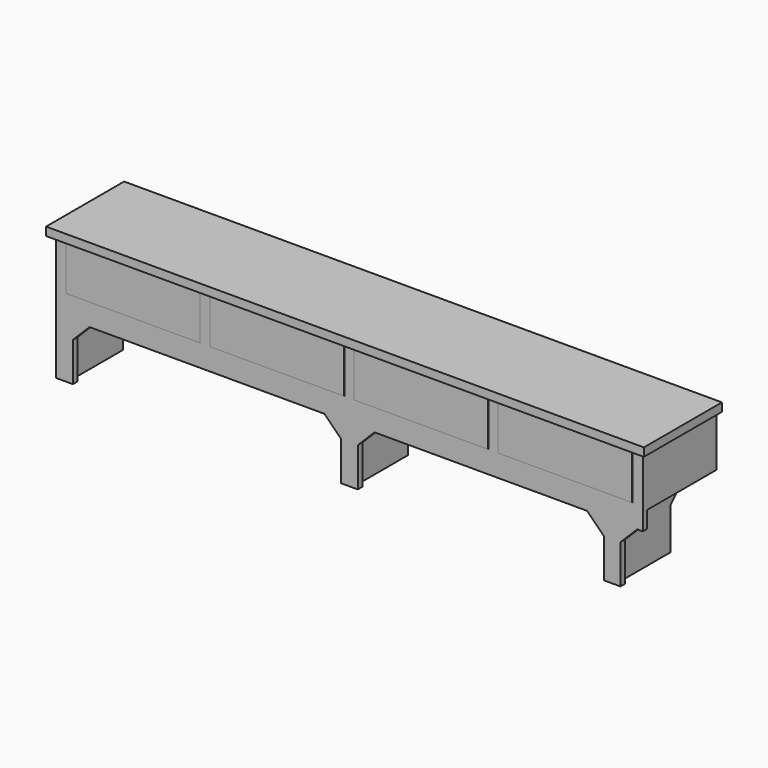
from build123d import *

# Parameters (mm, degrees)
F0_W          = 2724.15
F0_H          = 419.1
F1_DEPTH      = 609.6
F3_DEPTH      = 1362.076
F3_DEPTH_BACK = 1362.076
F4_W          = 25.4
F4_H          = 571.5
F5_DEPTH      = 419.101
F7_DEPTH      = 419.101
F8_W          = 609.6
F8_H          = 215.9
F9_DEPTH      = 2.54
F11_DEPTH     = 393.7
F12_W         = 2724.15
F12_H         = 38.1
F13_DEPTH     = 25.4
F15_DEPTH     = 406.4


with BuildPart() as f1:
    # F0 (on Top) → F1 (new body)
    with BuildSketch(Plane.XY):
        with Locations((0, -209.55)):
            Rectangle(F0_W, F0_H)
    extrude(amount=-F1_DEPTH)

    # F2 (on Right) → F3 (cut, two sides)
    with BuildSketch(Plane.YZ) as f3_sk:
        Polygon((-101.6, -419.1), (-101.6, -609.6), (0, -609.6), (0, -368.3), (-50.8, -368.3), align=None)
    extrude(amount=F3_DEPTH, mode=Mode.SUBTRACT)
    extrude(f3_sk.sketch, amount=-F3_DEPTH_BACK, mode=Mode.SUBTRACT)

    # F4 (on face) → F5 (cut, through all)
    with BuildSketch(Plane.XZ.offset(419.1)):
        with Locations((1349.375, -323.85)):
            Rectangle(F4_W, F4_H)
        with Locations((-1349.375, -323.85)):
            Rectangle(F4_W, F4_H)
    extrude(amount=-F5_DEPTH, mode=Mode.SUBTRACT)

    # F6 (on face) → F7 (cut, through all)
    with BuildSketch(Plane.XZ.offset(419.1)):
        Polygon((-1260.475, -431.8), (-1260.475, -609.6), (-38.1, -609.6), (-38.1, -431.8), (-114.3, -355.6), (-1184.275, -355.6), align=None)
        Polygon((38.1, -431.8), (38.1, -609.6), (1158.875, -609.6), (1158.875, -431.8), (1082.675, -355.6), (114.3, -355.6), align=None)
        Polygon((1235.075, -431.8), (1235.075, -609.6), (1336.675, -609.6), (1336.675, -355.6), (1311.275, -355.6), align=None)
    extrude(amount=-F7_DEPTH, mode=Mode.SUBTRACT)

    # F8 (on face) → F9 (join)
    with BuildSketch(Plane.XZ.offset(419.1)):
        with Locations((-984.885, -146.05)):
            Rectangle(F8_W, F8_H)
        with Locations((-328.295, -146.05)):
            Rectangle(F8_W, F8_H)
        with Locations((328.295, -146.05)):
            Rectangle(F8_W, F8_H)
        with Locations((984.885, -146.05)):
            Rectangle(F8_W, F8_H)
    extrude(amount=F9_DEPTH)

    # F10 (on face) → F11 (cut, through all)
    with BuildSketch(Plane(origin=(0, 0, 0), x_dir=(-1, 0, 0), z_dir=(0, 1, 0))):
        Polygon((-1184.275, -609.6), (-1209.675, -609.6), (-1209.675, -279.4), (-1336.675, -279.4), (-1336.675, -635), (1336.675, -635), (1336.675, -279.4), (1311.275, -279.4), (1311.275, -609.6), (1285.875, -609.6), (1285.875, -279.4), (12.7, -279.4), (12.7, -609.6), (-12.7, -609.6), (-12.7, -279.4), (-1184.275, -279.4), align=None)
    extrude(amount=-F11_DEPTH, mode=Mode.SUBTRACT)

    # F12 (on face) → F13 (join)
    with BuildSketch(Plane.XZ.offset(419.1)):
        with Locations((0, -19.05)):
            Rectangle(F12_W, F12_H)
    extrude(amount=F13_DEPTH)


with BuildPart() as f15:
    # F14 (on Front) → F15 (new body)
    with BuildSketch(Plane.XZ):
        Polygon((-828.675, 654.05), (-1336.675, 654.05), (-1336.675, 0), (-1317.625, 0), (-1317.625, 635), (-847.725, 635), (-847.725, 0), (-828.675, 0), align=None)
    extrude(amount=F15_DEPTH)


solid = f1.part
